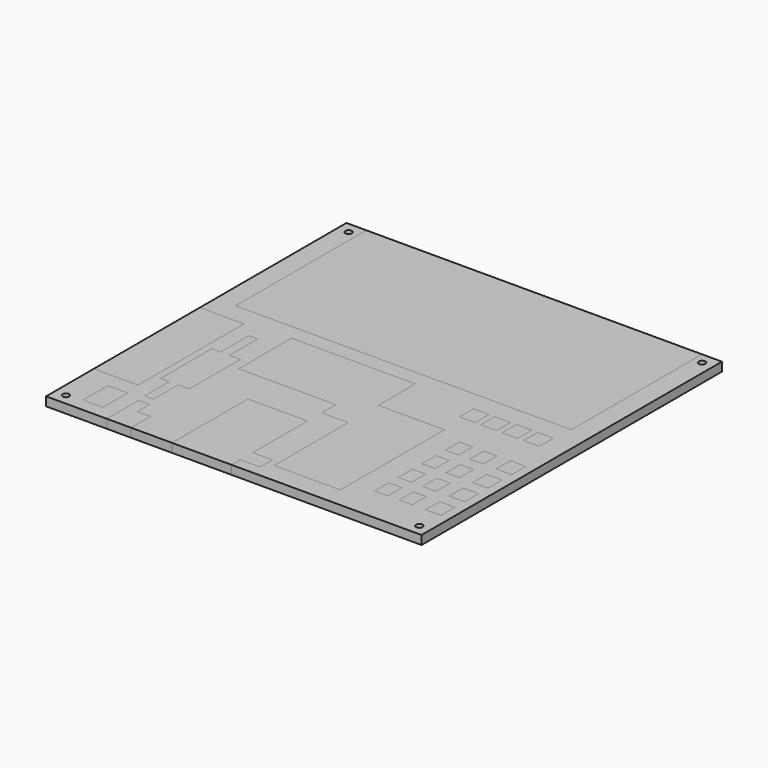
from build123d import *

# Parameters (mm, degrees)
SKETCH_W        = 170
SKETCH_H        = 170
PAD_DEPTH       = 4
SKETCH001_R     = 1.5
POCKET_DEPTH    = 4
SKETCH002_W     = 170
SKETCH002_H     = 170
PAD001_DEPTH    = 4
SKETCH003_R     = 1.5
POCKET001_DEPTH = 4
SKETCH004_W     = 152
SKETCH004_H     = 74
POCKET002_DEPTH = 4
SKETCH005_W     = 20
SKETCH005_H     = 60
POCKET003_DEPTH = 4
SKETCH006_W     = 9
SKETCH006_H     = 14
POCKET004_DEPTH = 4
POCKET005_DEPTH = 4
POCKET006_DEPTH = 4
POCKET007_DEPTH = 4
POCKET008_DEPTH = 4
SKETCH011_W     = 7
SKETCH011_H     = 8
POCKET009_DEPTH = 4
SKETCH012_W     = 6
SKETCH012_H     = 8
POCKET010_DEPTH = 4
SKETCH013_W     = 7
SKETCH013_H     = 8
POCKET011_DEPTH = 4


with BuildPart() as bottom:
    # Sketch → Pad (new body)
    with BuildSketch(Plane.XY):
        Rectangle(SKETCH_W, SKETCH_H)
    extrude(amount=PAD_DEPTH)

    # Sketch001 (on Face6 of Pad) → Pocket (cut)
    with BuildSketch(Plane.XY.offset(4)):
        with Locations((-80, 80)):
            Circle(SKETCH001_R)
        with Locations((80, 80)):
            Circle(SKETCH001_R)
        with Locations((80, -80)):
            Circle(SKETCH001_R)
        with Locations((-80, -80)):
            Circle(SKETCH001_R)
    extrude(amount=-POCKET_DEPTH, mode=Mode.SUBTRACT)


with BuildPart() as top:
    # Sketch002 → Pad001 (new body)
    with BuildSketch(Plane.XY):
        Rectangle(SKETCH002_W, SKETCH002_H)
    extrude(amount=PAD001_DEPTH)

    # Sketch003 (on Face6 of Pad001) → Pocket001 (cut)
    with BuildSketch(Plane.XY.offset(4)):
        with Locations((-80, 80)):
            Circle(SKETCH003_R)
        with Locations((80, 80)):
            Circle(SKETCH003_R)
        with Locations((80, -80)):
            Circle(SKETCH003_R)
        with Locations((-80, -80)):
            Circle(SKETCH003_R)
    extrude(amount=-POCKET001_DEPTH, mode=Mode.SUBTRACT)

    # Sketch004 (on Face5 of Pocket001) → Pocket002 (cut)
    with BuildSketch(Plane.XY.offset(4)):
        with Locations((0, 48)):
            Rectangle(SKETCH004_W, SKETCH004_H)
    extrude(amount=-POCKET002_DEPTH, mode=Mode.SUBTRACT)

    # Sketch005 (on Face4 of Pocket002) → Pocket003 (cut)
    with BuildSketch(Plane.XY.offset(4)):
        with Locations((-75, -28)):
            Rectangle(SKETCH005_W, SKETCH005_H)
    extrude(amount=-POCKET003_DEPTH, mode=Mode.SUBTRACT)

    # Sketch006 (on Face4 of Pocket003) → Pocket004 (cut)
    with BuildSketch(Plane.XY.offset(4)):
        with Locations((-68.5, -72)):
            Rectangle(SKETCH006_W, SKETCH006_H)
    extrude(amount=-POCKET004_DEPTH, mode=Mode.SUBTRACT)

    # Sketch007 (on Face4 of Pocket004) → Pocket005 (cut)
    with BuildSketch(Plane.XY.offset(4)):
        Polygon((11, -76), (41, -76), (41, -17), (11, -17), (11, 4), (-45, 4), (-45, -26), (-1, -26), (-1, -34), (11, -34), align=None)
    extrude(amount=-POCKET005_DEPTH, mode=Mode.SUBTRACT)

    # Sketch008 (on Face4 of Pocket005) → Pocket006 (cut)
    with BuildSketch(Plane.XY.offset(4)):
        Polygon((-28, -85), (-1, -85), (-1, -80), (8, -80), (8, -73), (-1, -73), (-1, -42), (-28, -42), align=None)
    extrude(amount=-POCKET006_DEPTH, mode=Mode.SUBTRACT)

    # Sketch009 (on Face4 of Pocket006) → Pocket007 (cut)
    with BuildSketch(Plane.XY.offset(4)):
        Polygon((-46.5, -85), (-57.5, -85), (-57.5, -67), (-52.5, -67), (-52.5, -74), (-46.5, -74), align=None)
    extrude(amount=-POCKET007_DEPTH, mode=Mode.SUBTRACT)

    # Sketch010 (on Face4 of Pocket007) → Pocket008 (cut)
    with BuildSketch(Plane.XY.offset(4)):
        Polygon((-58, -4), (-54, -4), (-54, -20), (-49, -20), (-49, -49), (-54, -49), (-54, -63), (-58, -63), (-58, -49), (-62, -49), (-62, -20), (-58, -20), align=None)
    extrude(amount=-POCKET008_DEPTH, mode=Mode.SUBTRACT)

    # Sketch011 (on Face4 of Pocket008) → Pocket009 (cut)
    with BuildSketch(Plane.XY.offset(4)):
        with Locations((71.5, -2)):
            Rectangle(SKETCH011_W, SKETCH011_H)
        with Locations((61.833333, -2)):
            Rectangle(SKETCH011_W, SKETCH011_H)
        with Locations((52.166667, -2)):
            Rectangle(SKETCH011_W, SKETCH011_H)
        with Locations((42.5, -2)):
            Rectangle(SKETCH011_W, SKETCH011_H)
    extrude(amount=-POCKET009_DEPTH, mode=Mode.SUBTRACT)

    # Sketch012 (on Face4 of Pocket009) → Pocket010 (cut)
    with BuildSketch(Plane.XY.offset(4)):
        with Locations((54, -25)):
            Rectangle(SKETCH012_W, SKETCH012_H)
        with Locations((54, -38.333333)):
            Rectangle(SKETCH012_W, SKETCH012_H)
        with Locations((54, -51.666667)):
            Rectangle(SKETCH012_W, SKETCH012_H)
        with Locations((54, -65)):
            Rectangle(SKETCH012_W, SKETCH012_H)
        with Locations((65, -25)):
            Rectangle(SKETCH012_W, SKETCH012_H)
        with Locations((65, -38.333333)):
            Rectangle(SKETCH012_W, SKETCH012_H)
        with Locations((65, -51.666667)):
            Rectangle(SKETCH012_W, SKETCH012_H)
        with Locations((65, -65)):
            Rectangle(SKETCH012_W, SKETCH012_H)
    extrude(amount=-POCKET010_DEPTH, mode=Mode.SUBTRACT)

    # Sketch013 (on Face4 of Pocket010) → Pocket011 (cut)
    with BuildSketch(Plane.XY.offset(4)):
        with Locations((77.5, -25)):
            Rectangle(SKETCH013_W, SKETCH013_H)
        with Locations((77.5, -38.333333)):
            Rectangle(SKETCH013_W, SKETCH013_H)
        with Locations((77.5, -51.666667)):
            Rectangle(SKETCH013_W, SKETCH013_H)
        with Locations((77.5, -65)):
            Rectangle(SKETCH013_W, SKETCH013_H)
    extrude(amount=-POCKET011_DEPTH, mode=Mode.SUBTRACT)


solid = Compound([bottom.part, top.part])
